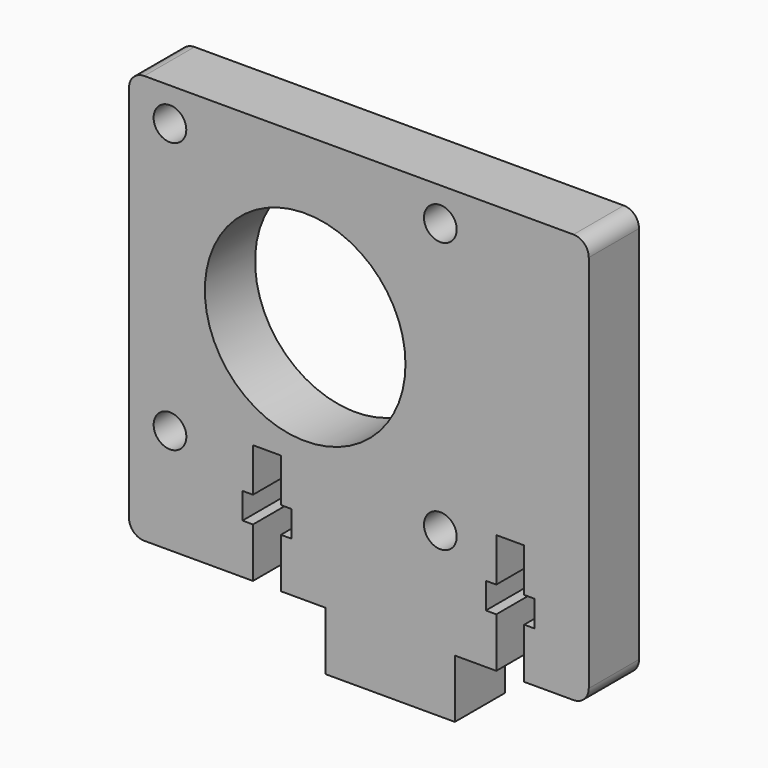
from build123d import *

# Parameters (mm, degrees)
F0_R     = 1.875
F0_R_2   = 11.5
F1_DEPTH = 7.2


with BuildPart() as f1:
    # F0 (on Front) → F1 (new body)
    with BuildSketch(Plane.XZ):
        with BuildLine():
            Line((-39.335162, 24.612443), (-39.335162, -7.034067))
            Line((-39.335162, -7.034067), (-39.335162, -18.793566))
            ThreePointArc((-39.335162, -18.793566), (-38.822599, -20.031003), (-37.585162, -20.543566))
            Line((-37.585162, -20.543566), (-25.125162, -20.543566))
            Line((-25.125162, -20.543566), (-25.125162, -14.843566))
            Line((-25.125162, -14.843566), (-26.325162, -14.843566))
            Line((-26.325162, -14.843566), (-26.325162, -11.843566))
            Line((-26.325162, -11.843566), (-25.125162, -11.843566))
            Line((-25.125162, -11.843566), (-25.125162, -6.843566))
            Line((-25.125162, -6.843566), (-21.925162, -6.843566))
            Line((-21.925162, -6.843566), (-21.925162, -11.843566))
            Line((-21.925162, -11.843566), (-20.725162, -11.843566))
            Line((-20.725162, -11.843566), (-20.725162, -14.843566))
            Line((-20.725162, -14.843566), (-21.925162, -14.843566))
            Line((-21.925162, -14.843566), (-21.925162, -20.543566))
            Line((-21.925162, -20.543566), (-16.825162, -20.543566))
            Line((-16.825162, -20.543566), (-16.825162, -27.243566))
            Line((-16.825162, -27.243566), (-1.985162, -27.243566))
            Line((-1.985162, -27.243566), (-1.985162, -20.543566))
            Line((-1.985162, -20.543566), (2.764838, -20.543566))
            Line((2.764838, -20.543566), (2.764838, -14.843566))
            Line((2.764838, -14.843566), (1.564838, -14.843566))
            Line((1.564838, -14.843566), (1.564838, -11.843566))
            Line((1.564838, -11.843566), (2.764838, -11.843566))
            Line((2.764838, -11.843566), (2.764838, -6.843566))
            Line((2.764838, -6.843566), (5.964838, -6.843566))
            Line((5.964838, -6.843566), (5.964838, -11.843566))
            Line((5.964838, -11.843566), (7.164838, -11.843566))
            Line((7.164838, -11.843566), (7.164838, -14.843566))
            Line((7.164838, -14.843566), (5.964838, -14.843566))
            Line((5.964838, -14.843566), (5.964838, -20.618257))
            Line((5.964838, -20.618257), (11.614838, -20.618257))
            ThreePointArc((11.614838, -20.618257), (12.852275, -20.105694), (13.364838, -18.868257))
            Line((13.364838, -18.868257), (13.364838, 24.612443))
            ThreePointArc((13.364838, 24.612443), (12.852275, 25.84988), (11.614838, 26.362443))
            Line((11.614838, 26.362443), (-37.585162, 26.362443))
            ThreePointArc((-37.585162, 26.362443), (-38.822599, 25.84988), (-39.335162, 24.612443))
        make_face()
        with Locations((-34.635157, -8.48592)):
            Circle(F0_R, mode=Mode.SUBTRACT)
        with Locations((-3.647157, -8.48592)):
            Circle(F0_R, mode=Mode.SUBTRACT)
        with Locations((-19.142657, 7.00658)):
            Circle(F0_R_2, mode=Mode.SUBTRACT)
        with Locations((-34.641157, 22.50208)):
            Circle(F0_R, mode=Mode.SUBTRACT)
        with Locations((-3.647157, 22.50208)):
            Circle(F0_R, mode=Mode.SUBTRACT)
    extrude(amount=F1_DEPTH)


solid = f1.part
